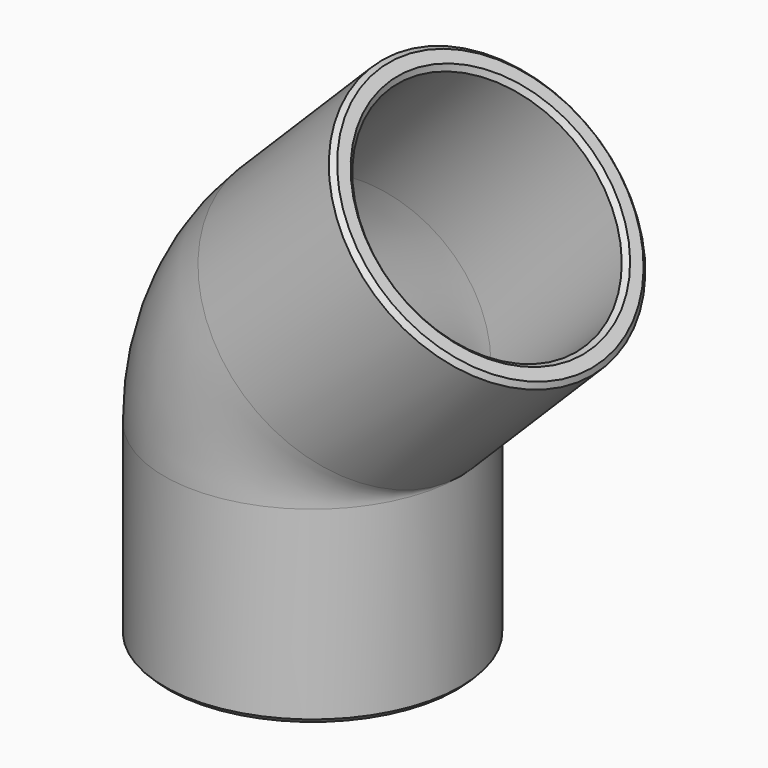
from build123d import *

# Parameters (mm, degrees)
F2_R     = 24.765
F2_R_2   = 21.082
F4_SIZE  = 0.7874
F5_SCALE = 1.45


with BuildPart() as f3:
    # F3: sweep along a path in F0
    with BuildLine(Plane.XZ) as f3_path:
        Line((0, -42.0079988722), (0, -10.3106039946))
        ThreePointArc((0, -10.3106039946), (1.8947906767, -0.7848479962), (7.2906980027, 7.2906980027))
        Line((7.2906980027, 7.2906980027), (29.7041408666, 29.7041408666))
    # F2 (on plane+point) → F3 (sweep)
    with BuildSketch(Plane.XY.offset(-42.0079988722)):
        Circle(F2_R)
        Circle(F2_R_2, mode=Mode.SUBTRACT)
    sweep(path=f3_path.line)

    # F4
    f4_edges = [f3.edges().sort_by_distance(p)[0] for p in [
        (12.192641, 0, 47.21564),
        (14.796916, 0, 44.611366),
        (-21.082, 0, -42.007999),
        (-24.765, 0, -42.007999),
    ]]
    chamfer(f4_edges, length=F4_SIZE)


with BuildPart() as f3_1:
    # F5: moved
    add(f3.part.scale(F5_SCALE))


solid = f3_1.part
